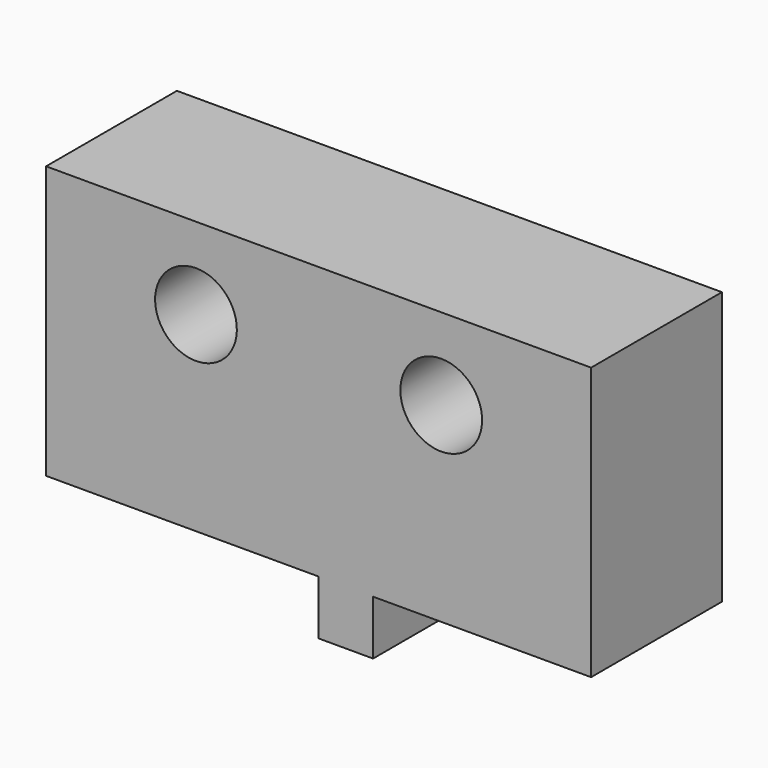
from build123d import *

# Parameters (mm, degrees)
CYLINDER036_R           = 1.5
CYLINDER036_DEPTH       = 10
ARRAY001016_Y_COUNT     = 2
ARRAY001016_Y_PITCH     = 9
BOX016_W                = 6
BOX016_H                = 20
BOX016_DEPTH            = 10
BOX017_W                = 6
BOX017_H                = 2
BOX017_DEPTH            = 2
BODY003_ROLL_ANGLE      = 180
BODY003_PLACEMENT_ANGLE = -90


with BuildPart() as end_stop_hole_array:
    # Cylinder036 → Cylinder036 (new body)
    with BuildSketch(Plane(origin=(-2, 5.5, 3), x_dir=(0, 0, -1), z_dir=(1, 0, 0))):
        Circle(CYLINDER036_R)
    extrude(amount=CYLINDER036_DEPTH)

    # Array001016 Y: end stop hole array ×2


with BuildPart() as end_stop_hole_array_1:
    add(end_stop_hole_array.part)
    with Locations(*[(0, i * ARRAY001016_Y_PITCH, 0) for i in range(1, ARRAY001016_Y_COUNT)]):
        add(end_stop_hole_array.part)


with BuildPart() as end_stop_body_cube:
    # Box016 → Box016 (new body)
    with BuildSketch(Plane.XY):
        with Locations((3, 10)):
            Rectangle(BOX016_W, BOX016_H)
    extrude(amount=BOX016_DEPTH)


with BuildPart() as top_end_stop_clone:
    # Box017 → Box017 (new body)
    with BuildSketch(Plane(origin=(0, 8, 10), x_dir=(1, 0, 0), z_dir=(0, 0, 1))):
        with Locations((3, 1)):
            Rectangle(BOX017_W, BOX017_H)
    extrude(amount=BOX017_DEPTH)

    # Fusion014: union end stop body cube
    add(end_stop_body_cube.part)

    # Cut013: cut end stop hole array
    add(end_stop_hole_array_1.part, mode=Mode.SUBTRACT)


with BuildPart() as top_end_stop_clone_1:
    # Body003 roll: moved
    add(top_end_stop_clone.part.rotate(Axis((0, 0, 0), (1, 0, 0)), BODY003_ROLL_ANGLE))


with BuildPart() as top_end_stop_clone_2:
    # Body003 placement: moved
    add(top_end_stop_clone_1.part.moved(Location((36, 0, 120.5))).rotate(Axis((36, 0, 120.5), (0, 0, 1)), BODY003_PLACEMENT_ANGLE))


solid = top_end_stop_clone_2.part
